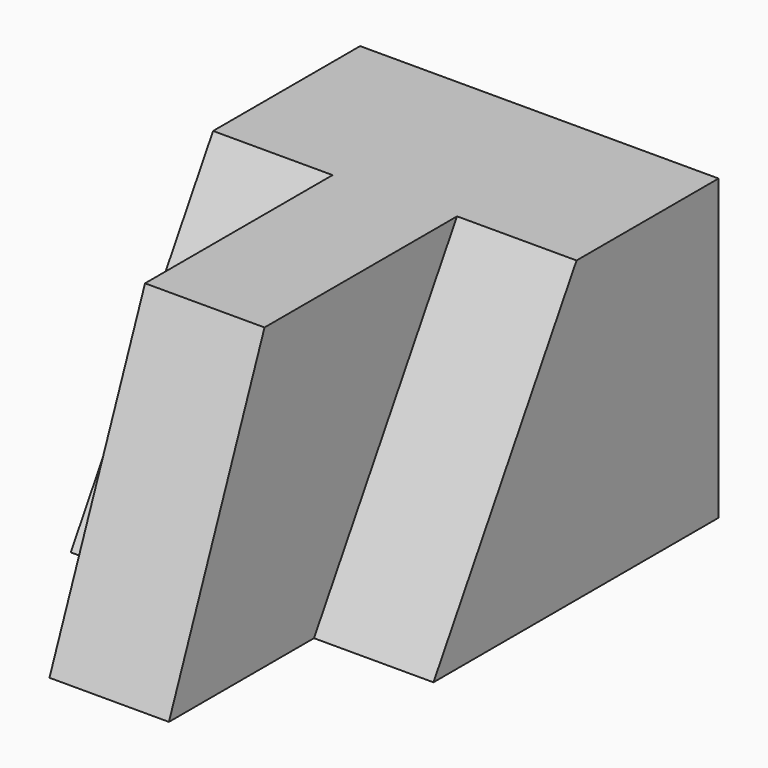
from build123d import *

# Parameters (mm, degrees)
F0_W     = 38.1
F0_H     = 57.15
F1_DEPTH = 31.75
F3_DEPTH = 50.8
F5_DEPTH = 12.7
F7_DEPTH = 12.7


with BuildPart() as f1:
    # F0 (on Top) → F1 (new body)
    with BuildSketch(Plane.XY):
        with Locations((19.05, -28.575)):
            Rectangle(F0_W, F0_H)
    extrude(amount=F1_DEPTH)

    # F2 (on face) → F3 (cut)
    with BuildSketch(Plane(origin=(0, 0, 0), x_dir=(0, -1, 0), z_dir=(-1, 0, 0))):
        Polygon((57.15, 31.75), (44.45, 31.75), (57.15, 0), align=None)
    extrude(amount=-F3_DEPTH, mode=Mode.SUBTRACT)

    # F4 (on Right) → F5 (cut)
    with BuildSketch(Plane.YZ):
        Polygon((-38.444523, 0), (-19.43505, 31.918883), (-44.970158, 31.918883), (-59.156332, 0), (-56.886543, 0), align=None)
    extrude(amount=F5_DEPTH, mode=Mode.SUBTRACT)

    # F6 (on face) → F7 (cut)
    with BuildSketch(Plane.YZ.offset(38.1)):
        Polygon((-44.45, 31.75), (-57.15, 0), (-37.877075, 0), (-18.867606, 31.75), align=None)
    extrude(amount=-F7_DEPTH, mode=Mode.SUBTRACT)


solid = f1.part
